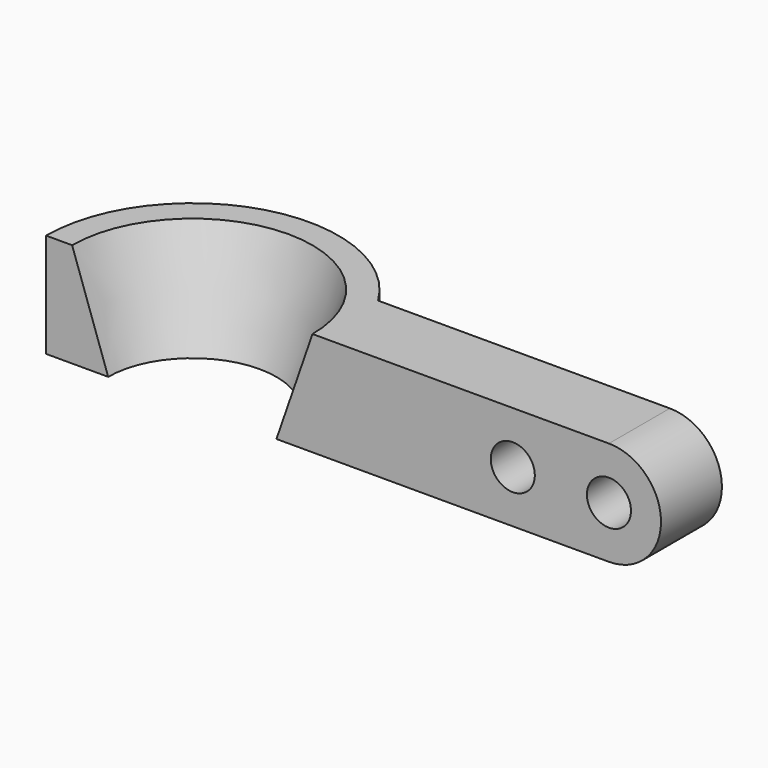
from build123d import *

# Parameters (mm, degrees)
F1_ANGLE = 180
F2_R     = 11
F3_DEPTH = 38


with BuildPart() as f1:
    # F0 (on Front) → F1 (revolve)
    with BuildSketch(Plane.XZ):
        Polygon((-73, 0), (-42, 0), (-60, 52), (-73, 52), align=None)
    revolve(axis=Axis((0, 0, 26.369863), (0, 0, -1)), revolution_arc=F1_ANGLE)

    # F2 (on Front) → F3 (join)
    with BuildSketch(Plane.XZ):
        with BuildLine():
            Line((60, 52), (60, 0))
            Line((60, 0), (208, 0))
            ThreePointArc((208, 0), (234, 26), (208, 52))
            Line((208, 52), (73, 52))
            Line((73, 52), (60, 52))
        make_face()
        with Locations((160, 26)):
            Circle(F2_R, mode=Mode.SUBTRACT)
        with Locations((208, 26)):
            Circle(F2_R, mode=Mode.SUBTRACT)
    extrude(amount=-F3_DEPTH)


solid = f1.part
